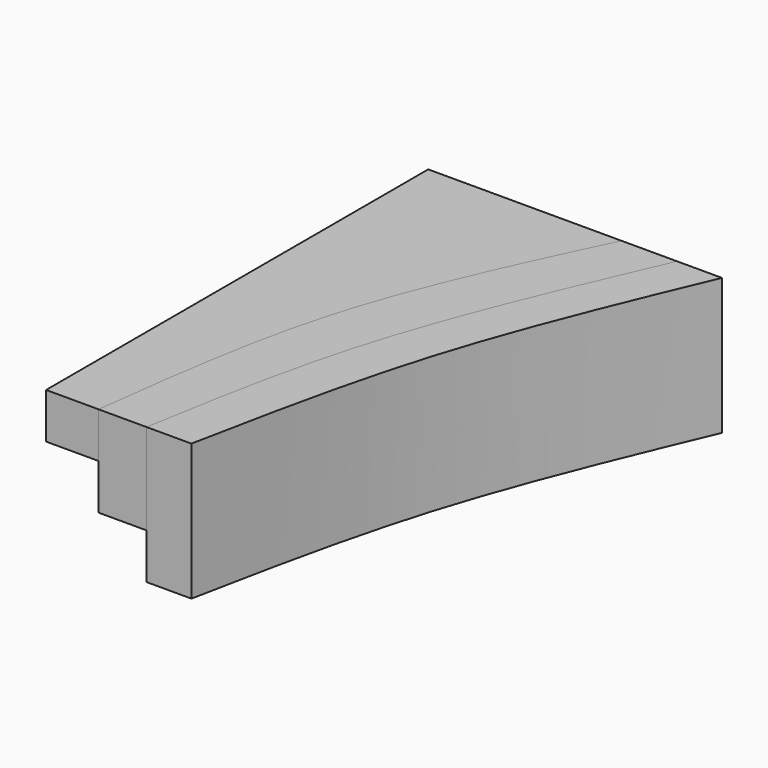
from build123d import *

# Parameters (mm, degrees)
F1_DEPTH = 10
F2_DEPTH = 20
F3_DEPTH = 30


with BuildPart() as f1:
    # F0 (on Top) → F1 (new body)
    with BuildSketch(Plane.XY):
        with BuildLine():
            Line((-155.7964533567, 28.2030683011), (-198.2709467411, 28.2030683011))
            Line((-198.2709467411, 28.2030683011), (-198.2709467411, -76.7938867211))
            Line((-198.2709467411, -76.7938867211), (-186.7178976536, -76.7938867211))
            add(Edge.make_bspline(
                [(-186.7178976536, -76.7938867211), (-184.5023630807, -58.8045595065), (-180.0364101654, -22.5426616764), (-163.9184051264, 11.1999698777), (-155.7964533567, 28.2030683011)],
                knots=[0, 0, 0, 0, 0.4960944763, 1, 1, 1, 1], degree=3))
        make_face()
    extrude(amount=-F1_DEPTH)


with BuildPart() as f2:
    # F0 (on Top) → F2 (new body)
    with BuildSketch(Plane.XY):
        with BuildLine():
            Line((-143.5638070107, 28.2030683011), (-155.7964533567, 28.2030683011))
            add(Edge.make_bspline(
                [(-186.7178976536, -76.7938867211), (-184.5023630807, -58.8045595065), (-180.0364101654, -22.5426616764), (-163.9184051264, 11.1999698777), (-155.7964533567, 28.2030683011)],
                knots=[0, 0, 0, 0, 0.4960944763, 1, 1, 1, 1], degree=3))
            Line((-186.7178976536, -76.7938867211), (-176.184207201, -76.7938867211))
            add(Edge.make_bspline(
                [(-176.184207201, -76.7938867211), (-173.4355359871, -60.6558550722), (-167.6708875572, -26.8103815443), (-151.8441287787, 9.3069989322), (-143.5638070107, 28.2030683011)],
                knots=[0, 0, 0, 0, 0.4768150647, 1, 1, 1, 1], degree=3))
        make_face()
    extrude(amount=-F2_DEPTH)


with BuildPart() as f3:
    # F0 (on Top) → F3 (new body)
    with BuildSketch(Plane.XY):
        with BuildLine():
            Line((-133.7097138166, 28.2030683011), (-143.5638070107, 28.2030683011))
            add(Edge.make_bspline(
                [(-176.184207201, -76.7938867211), (-173.4355359871, -60.6558550722), (-167.6708875572, -26.8103815443), (-151.8441287787, 9.3069989322), (-143.5638070107, 28.2030683011)],
                knots=[0, 0, 0, 0, 0.4768150647, 1, 1, 1, 1], degree=3))
            Line((-176.184207201, -76.7938867211), (-166.3301289082, -76.7938867211))
            add(Edge.make_bspline(
                [(-166.3301289082, -76.7938867211), (-162.8711040579, -59.4163198767), (-155.8451169004, -24.1189263154), (-141.1633648246, 10.584690789), (-133.7097138166, 28.2030683011)],
                knots=[0, 0, 0, 0, 0.4923186981, 1, 1, 1, 1], degree=3))
        make_face()
    extrude(amount=-F3_DEPTH)


solid = Compound([f1.part, f2.part, f3.part])
